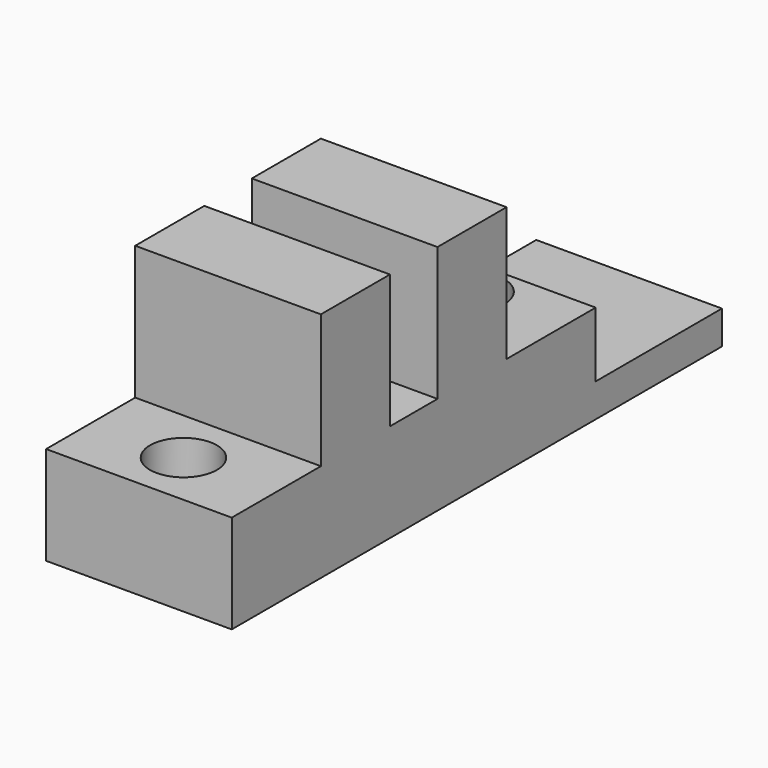
from build123d import *

# Parameters (mm, degrees)
PAD001_DEPTH = 10
SKETCH002_R  = 1.8
POCKET_DEPTH = 3.501
SKETCH_W     = 10
SKETCH_H     = 33
SKETCH_R     = 1.8
PAD_DEPTH    = 1.8


with BuildPart() as body001:
    # Sketch001 → Pad001 (new body)
    with BuildSketch(Plane.YZ.offset(-5)):
        Polygon((0, 1.8), (0, 5.3), (6, 5.3), (6, 12.5), (10.65, 12.5), (10.65, 5.3), (13.85, 5.3), (13.85, 12.5), (18.5, 12.5), (18.5, 5.3), (24.5, 5.3), (24.5, 1.8), align=None)
    extrude(amount=PAD001_DEPTH)

    # Sketch002 (on Face2 of Pad001) → Pocket (cut, through all)
    with BuildSketch(Plane(origin=(0, 0, 5.3), x_dir=(0, -1, 0), z_dir=(0, 0, 1))):
        with Locations((-22.36288, 0)):
            Circle(SKETCH002_R)
        with Locations((-3, 0)):
            Circle(SKETCH002_R)
    extrude(amount=-POCKET_DEPTH, mode=Mode.SUBTRACT)


with BuildPart() as fusion:
    # Sketch → Pad (new body)
    with BuildSketch(Plane.XY):
        with Locations((0, 16.5)):
            Rectangle(SKETCH_W, SKETCH_H)
        with Locations((0, 22)):
            Circle(SKETCH_R, mode=Mode.SUBTRACT)
        with Locations((0, 3)):
            Circle(SKETCH_R, mode=Mode.SUBTRACT)
    extrude(amount=PAD_DEPTH)

    # Fusion: union Body001
    add(body001.part)


solid = fusion.part
